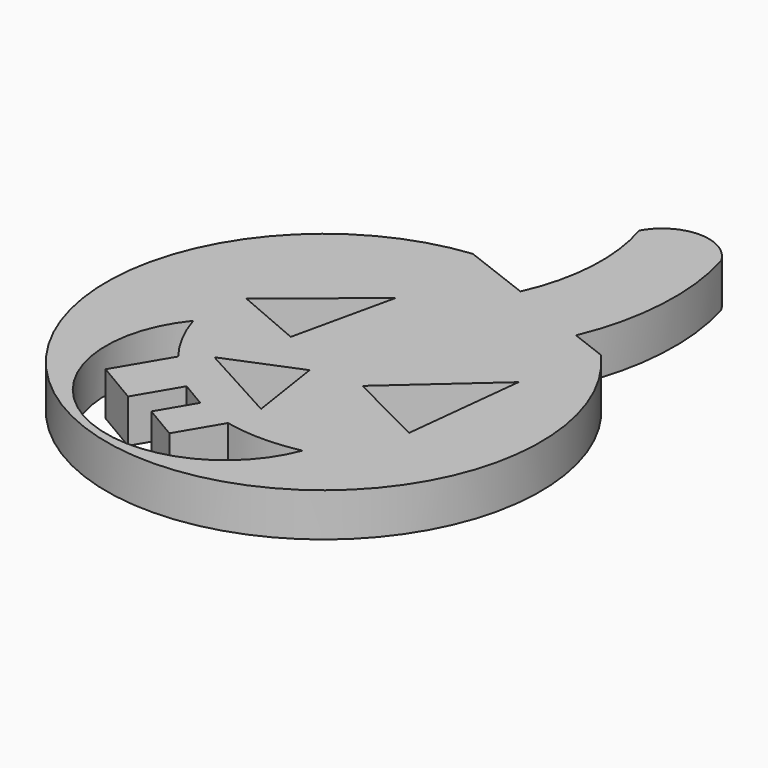
from build123d import *

# Parameters (mm, degrees)
F1_DEPTH = 3


with BuildPart() as f1:
    # F0 (on Top) → F1 (new body)
    with BuildSketch(Plane.XY):
        with BuildLine():
            Line((3.145587, 13.081894), (-1.617252, 14.912562))
            ThreePointArc((-1.617252, 14.912562), (-5.38163, -14.001359), (11.189027, 9.990279))
            Line((11.189027, 9.990279), (8.696999, 10.948126))
            ThreePointArc((8.696999, 10.948126), (10.035784, 16.738453), (9.370891, 22.644226))
            ThreePointArc((9.370891, 22.644226), (6.534897, 24.324435), (3.698903, 22.644226))
            ThreePointArc((3.698903, 22.644226), (4.30714, 17.811856), (3.145587, 13.081894))
        make_face()
        with BuildLine():
            ThreePointArc((5.58474, -8.803174), (-6.250082, -12.977674), (-8.510819, -0.633504))
            ThreePointArc((-8.510819, -0.633504), (-7.689946, -2.608119), (-6.533715, -4.407026))
            Line((-6.533715, -4.407026), (-8.664479, -8.012936))
            Line((-8.664479, -8.012936), (-5.728126, -9.748053))
            Line((-5.728126, -9.748053), (-4.006592, -6.834687))
            Line((-4.006592, -6.834687), (-2.219331, -7.890795))
            Line((-2.219331, -7.890795), (-3.654934, -10.320276))
            Line((-3.654934, -10.320276), (-1.297309, -11.713418))
            Line((-1.297309, -11.713418), (0.423625, -8.801069))
            ThreePointArc((0.423625, -8.801069), (3.004069, -9.081008), (5.58474, -8.803174))
        make_face(mode=Mode.SUBTRACT)
        Polygon((0.793802, -6.401524), (-4.951228, -3.248764), (0, -1.216984), align=None, mode=Mode.SUBTRACT)
        Polygon((8.780796, -3.59907), (3.386073, -0.866678), (9.691594, 4.73823), align=None, mode=Mode.SUBTRACT)
        Polygon((-3.222847, 1.18529), (-7.888624, 3.184909), (-1.639816, 8.267273), align=None, mode=Mode.SUBTRACT)
    extrude(amount=-F1_DEPTH)


solid = f1.part
